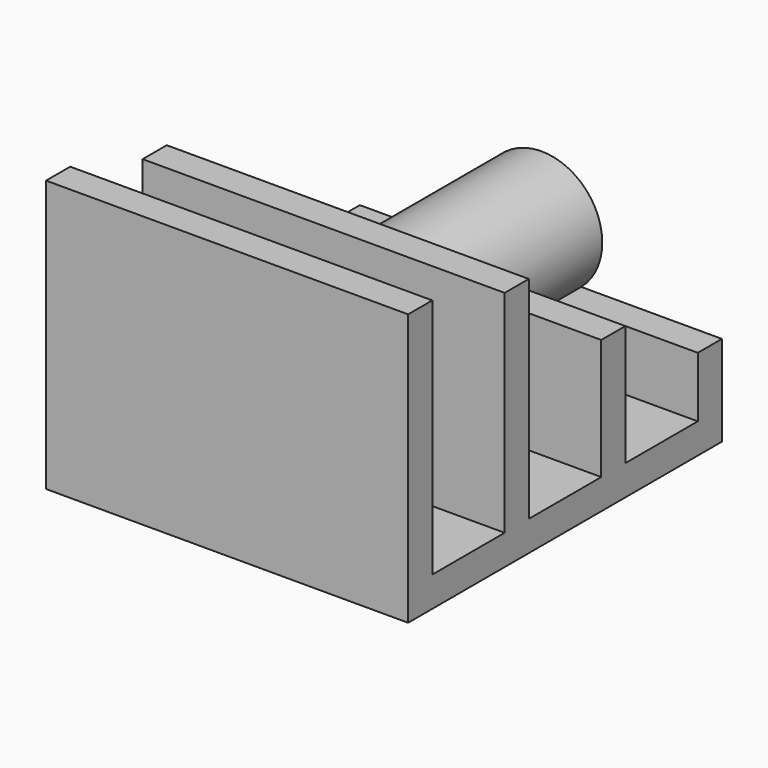
from build123d import *

# Parameters (mm, degrees)
F0_W          = 12.7
F0_H          = 25.4
F0_H_2        = 50.8
F0_H_3        = 88.9
F0_H_4        = 101.6
F1_DEPTH      = 152.4
F2_R          = 25.532371
F3_DEPTH      = 81.28
F3_DEPTH_BACK = 83.82


with BuildPart() as f1:
    # F0 (on Right) → F1 (new body)
    with BuildSketch(Plane.YZ):
        Polygon((-68.94286, 0), (-81.64286, 0), (-81.64286, -12.7), (83.45714, -12.7), (83.45714, 0), (70.75714, 0), (32.65714, 0), (19.95714, 0), (-18.14286, 0), (-30.84286, 0), align=None)
        with Locations((77.10714, 12.7)):
            Rectangle(F0_W, F0_H)
        with Locations((26.30714, 25.4)):
            Rectangle(F0_W, F0_H_2)
        with Locations((-24.49286, 44.45)):
            Rectangle(F0_W, F0_H_3)
        with Locations((-75.29286, 50.8)):
            Rectangle(F0_W, F0_H_4)
    extrude(amount=F1_DEPTH)

    # F2 (on Front) → F3 (join, two sides)
    with BuildSketch(Plane.XZ) as f3_sk:
        with Locations((76.2, 44.45)):
            Circle(F2_R)
    extrude(amount=F3_DEPTH)
    extrude(f3_sk.sketch, amount=-F3_DEPTH_BACK)


solid = f1.part
